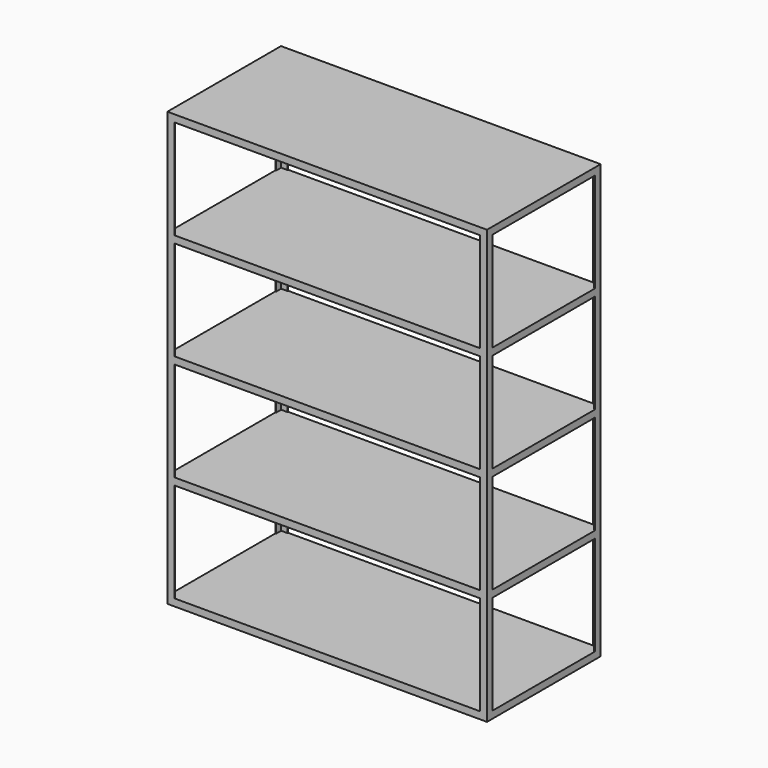
from build123d import *

# Parameters (mm, degrees)
F4_W      = 900
F4_H      = 400
F6_DEPTH  = 1220
F7_DEPTH  = 280
F11_DEPTH = 280
F12_DEPTH = 280
F13_DEPTH = 280


with BuildPart() as f6:
    # F4 (on Top) → F6 (new body)
    with BuildSketch(Plane.XY):
        Rectangle(F4_W, F4_H)
    extrude(amount=F6_DEPTH)

    # F5 (on offset) → F7 (cut)
    with BuildSketch(Plane.XY.offset(300)):
        Polygon((-430, 198), (-448, 198), (-448, 180), (-450, 180), (-450, -180), (-448, -180), (-448, -198), (-430, -198), (-430, -200), (430, -200), (430, -198), (448, -198), (448, -180), (450, -180), (450, 180), (448, 180), (448, 198), (430, 198), (430, 200), (-430, 200), align=None)
    extrude(amount=-F7_DEPTH, mode=Mode.SUBTRACT)

    # F8 (on offset) → F11 (cut)
    with BuildSketch(Plane.XY.offset(600)):
        Polygon((-430, 198), (-448, 198), (-448, 180), (-450, 180), (-450, -180), (-448, -180), (-448, -198), (-430, -198), (-430, -200), (430, -200), (430, -198), (448, -198), (448, -180), (450, -180), (450, 180), (448, 180), (448, 198), (430, 198), (430, 200), (-430, 200), align=None)
    extrude(amount=-F11_DEPTH, mode=Mode.SUBTRACT)

    # F9 (on offset) → F12 (cut)
    with BuildSketch(Plane.XY.offset(900)):
        Polygon((-430, 198), (-448, 198), (-448, 180), (-450, 180), (-450, -180), (-448, -180), (-448, -198), (-430, -198), (-430, -200), (430, -200), (430, -198), (448, -198), (448, -180), (450, -180), (450, 180), (448, 180), (448, 198), (430, 198), (430, 200), (-430, 200), align=None)
    extrude(amount=-F12_DEPTH, mode=Mode.SUBTRACT)

    # F10 (on offset) → F13 (cut)
    with BuildSketch(Plane.XY.offset(1200)):
        Polygon((-430, 198), (-448, 198), (-448, 180), (-450, 180), (-450, -180), (-448, -180), (-448, -198), (-430, -198), (-430, -200), (430, -200), (430, -198), (448, -198), (448, -180), (450, -180), (450, 180), (448, 180), (448, 198), (430, 198), (430, 200), (-430, 200), align=None)
    extrude(amount=-F13_DEPTH, mode=Mode.SUBTRACT)


solid = f6.part
